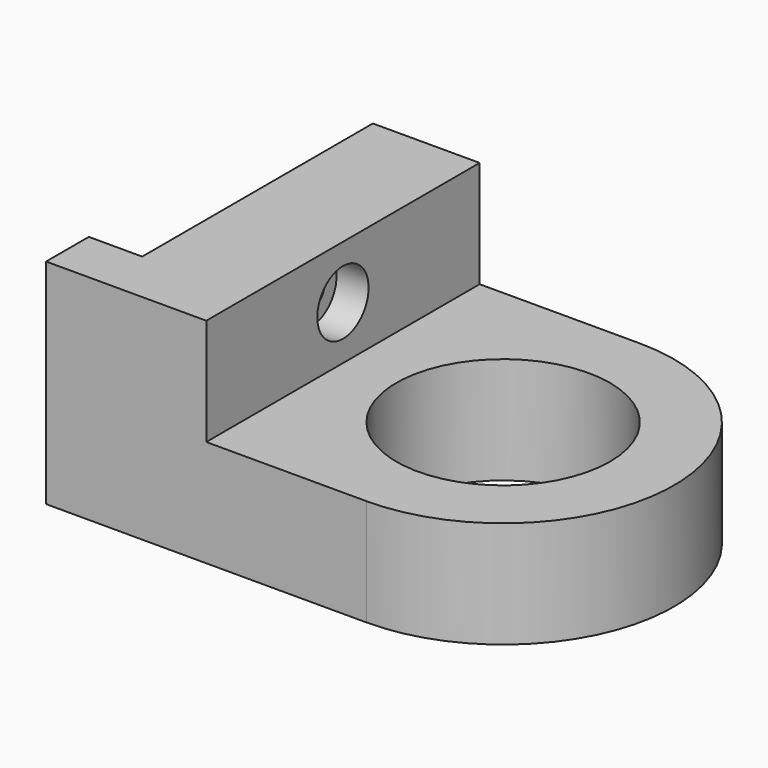
from build123d import *

# Parameters (mm, degrees)
F0_R     = 10
F1_DEPTH = 10
F2_W     = 32
F2_H     = 10
F3_DEPTH = 10
F4_R     = 1.625
F5_DEPTH = 25
F6_R     = 3
F7_DEPTH = 3
F8_W     = 5
F8_H     = 20
F9_DEPTH = 5


with BuildPart() as f1:
    # F0 (on Top) → F1 (new body)
    with BuildSketch(Plane.XY):
        with BuildLine():
            Line((-25, -16), (0, -16))
            ThreePointArc((0, -16), (16, 0), (0, 16))
            Line((0, 16), (-25, 16))
            Line((-25, 16), (-25, -16))
        make_face()
        Circle(F0_R, mode=Mode.SUBTRACT)
    extrude(amount=F1_DEPTH)

    # F2 (on face) → F3 (join)
    with BuildSketch(Plane(origin=(-25, 0, 0), x_dir=(0, -1, 0), z_dir=(-1, 0, 0))):
        with Locations((0, 15)):
            Rectangle(F2_W, F2_H)
    extrude(amount=-F3_DEPTH)

    # F4 (on face) → F5 (cut)
    with BuildSketch(Plane.YZ.offset(-15)):
        with Locations((0, 15)):
            Circle(F4_R)
    extrude(amount=-F5_DEPTH, mode=Mode.SUBTRACT)

    # F6 (on face) → F7 (cut)
    with BuildSketch(Plane.YZ.offset(-15)):
        with Locations((0, 15)):
            Circle(F6_R)
    extrude(amount=-F7_DEPTH, mode=Mode.SUBTRACT)

    # F8 (on face) → F9 (join)
    with BuildSketch(Plane(origin=(-25, 0, 0), x_dir=(0, -1, 0), z_dir=(-1, 0, 0))):
        with Locations((13.5, 10)):
            Rectangle(F8_W, F8_H)
    extrude(amount=F9_DEPTH)


solid = f1.part
